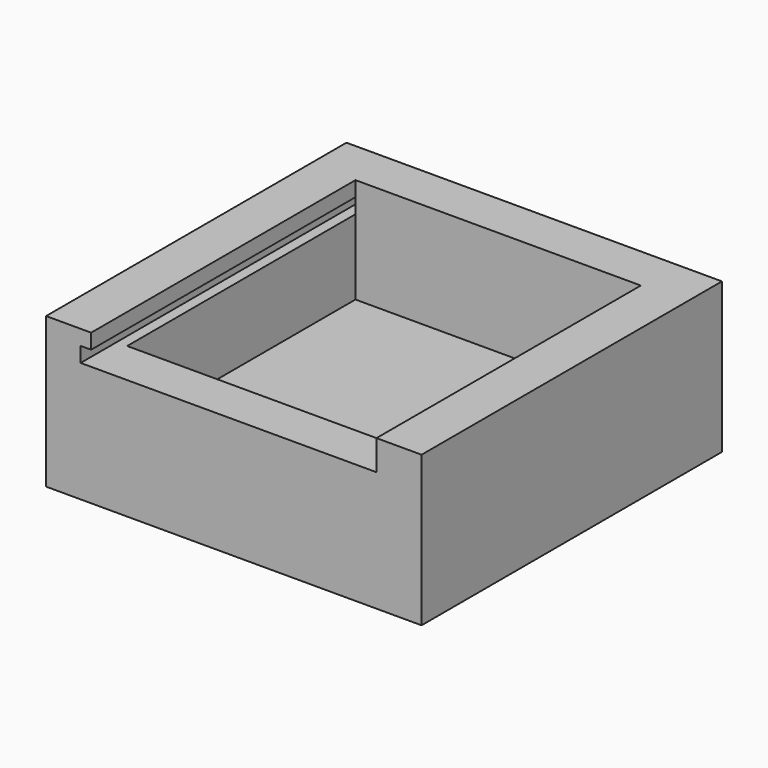
from build123d import *

# Parameters (mm, degrees)
F0_W     = 63.5
F0_H     = 63.5
F1_DEPTH = 25.4
F2_W     = 48.26
F2_H     = 48.26
F3_DEPTH = 17.78
F4_W     = 48.26
F4_H     = 7.62
F5_DEPTH = 5.08
F6_W     = 1.774852
F6_H     = 2.54
F7_DEPTH = 58.42


with BuildPart() as f1:
    # F0 (on Top) → F1 (new body)
    with BuildSketch(Plane.XY):
        with Locations((-13.989703, 19.433425)):
            Rectangle(F0_W, F0_H)
    extrude(amount=F1_DEPTH)

    # F2 (on face) → F3 (cut)
    with BuildSketch(Plane.XY.offset(25.4)):
        with Locations((-13.989703, 19.433425)):
            Rectangle(F2_W, F2_H)
    extrude(amount=-F3_DEPTH, mode=Mode.SUBTRACT)

    # F4 (on face) → F5 (cut)
    with BuildSketch(Plane.XY.offset(25.4)):
        with Locations((-13.989703, -8.506575)):
            Rectangle(F4_W, F4_H)
    extrude(amount=-F5_DEPTH, mode=Mode.SUBTRACT)

    # F6 (on face) → F7 (cut)
    with BuildSketch(Plane.XZ.offset(12.316575)):
        with Locations((-39.007129, 21.59)):
            Rectangle(F6_W, F6_H)
    extrude(amount=-F7_DEPTH, mode=Mode.SUBTRACT)


solid = f1.part
